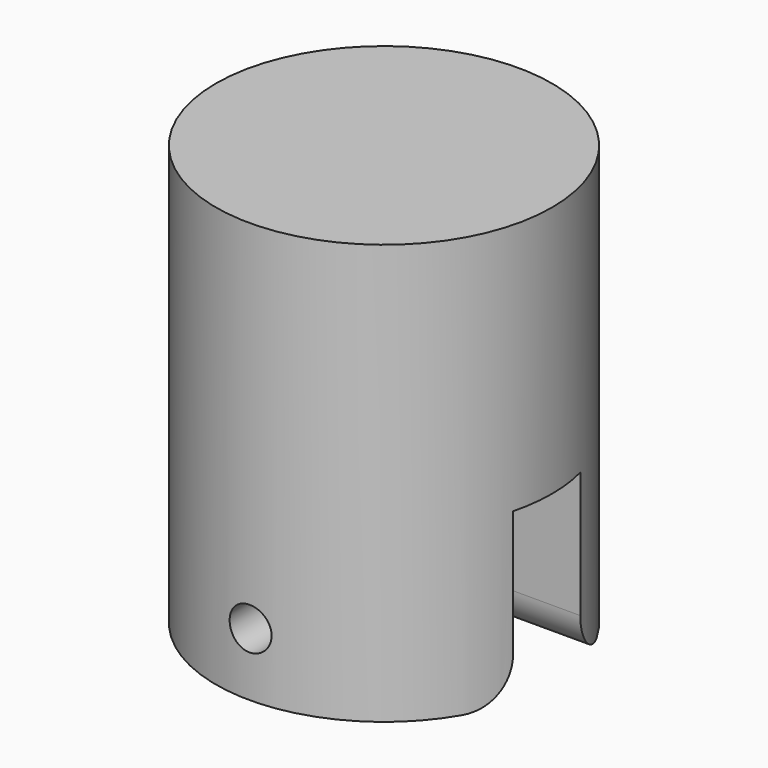
from build123d import *

# Parameters (mm, degrees)
F0_R     = 8
F1_DEPTH = 20
F2_W     = 19
F2_H     = 4
F3_DEPTH = 8
F4_R     = 1
F5_DEPTH = 8
F6_R     = 2


with BuildPart() as f1:
    # F0 (on Top) → F1 (new body)
    with BuildSketch(Plane.XY):
        Circle(F0_R)
    extrude(amount=F1_DEPTH)

    # F2 (on face) → F3 (cut)
    with BuildSketch(Plane(origin=(0, 0, 0), x_dir=(1, 0, 0), z_dir=(0, 0, -1))):
        Rectangle(F2_W, F2_H)
    extrude(amount=-F3_DEPTH, mode=Mode.SUBTRACT)

    # F4 (on Front) → F5 (cut, symmetric)
    with BuildSketch(Plane.XZ):
        with Locations((0, 3)):
            Circle(F4_R)
    extrude(amount=F5_DEPTH, both=True, mode=Mode.SUBTRACT)

    # F6
    f6_edges = [f1.edges().sort_by_distance(p)[0] for p in [
        (0, -2, 0),
        (0, 2, 0),
    ]]
    fillet(f6_edges, radius=F6_R)


solid = f1.part
